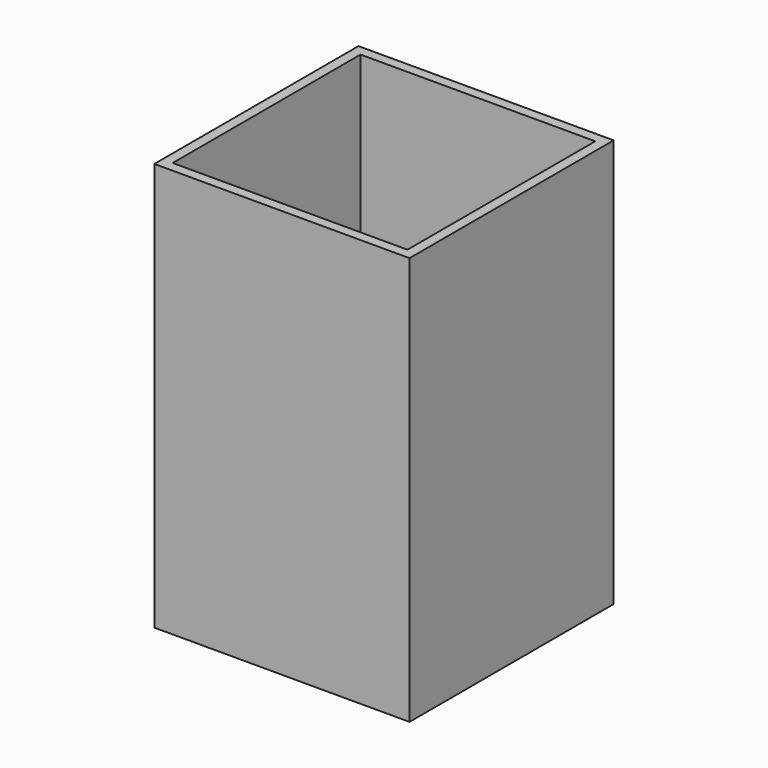
from build123d import *

# Parameters (mm, degrees)
BOX001_W     = 46
BOX001_H     = 46
BOX001_DEPTH = 78
BOX_W        = 50
BOX_H        = 50
BOX_DEPTH    = 80


with BuildPart() as cube001:
    # Box001 → Box001 (new body)
    with BuildSketch(Plane(origin=(2, 2, 2), x_dir=(1, 0, 0), z_dir=(0, 0, 1))):
        with Locations((23, 23)):
            Rectangle(BOX001_W, BOX001_H)
    extrude(amount=BOX001_DEPTH)


with BuildPart() as cut:
    # Box → Box (new body)
    with BuildSketch(Plane.XY):
        with Locations((25, 25)):
            Rectangle(BOX_W, BOX_H)
    extrude(amount=BOX_DEPTH)

    # Cut: cut Cube001
    add(cube001.part, mode=Mode.SUBTRACT)


solid = cut.part
